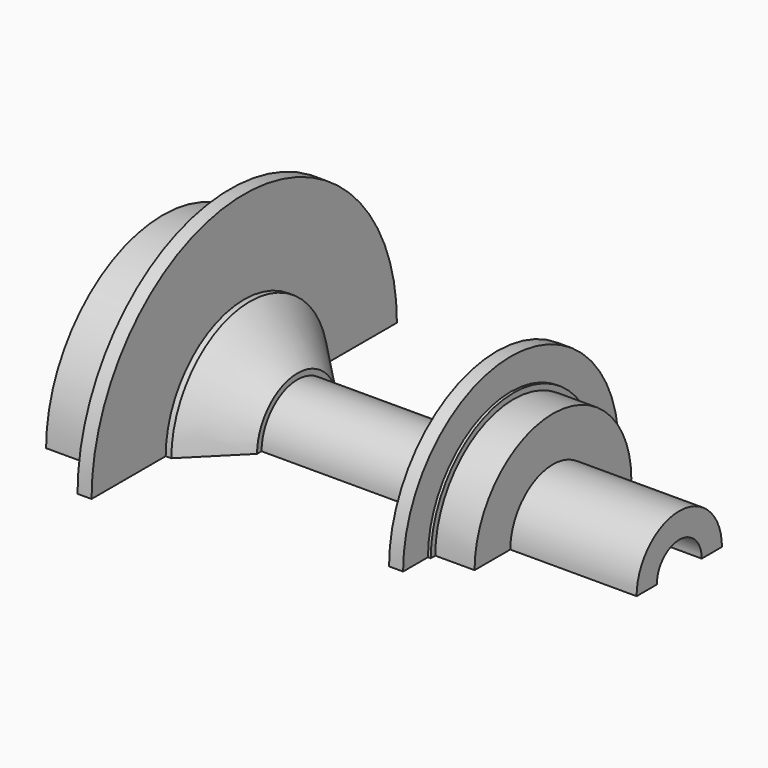
from build123d import *

# Parameters (mm, degrees)
REVOLUTION_ANGLE   = 180
SKETCH001_R        = 2.5
POCKET_DEPTH       = 22
POLARPATTERN_COUNT = 12


with BuildPart() as part:
    # Sketch → Revolution (revolve)
    with BuildSketch(Plane.XY):
        Polygon((27.5, 9.5), (27.5, 17.46), (20.5, 17.46), (20.5, 18.46), (20, 18.46), (20, 24), (17.5, 24), (17.5, 13.242641), (16.5, 13.242641), (12.257359, 9), (12.257359, 8), (-18.014719, 8), (-18.014719, 9), (-26.5, 17.485281), (-27.5, 17.485281), (-27.5, 34), (-30, 34), (-30, 26), (-42, 26), (-42, 9.5), (-50, 9.5), (-50, 5), (50, 5), (50, 9.5), align=None)
    revolve(axis=Axis((0, 0, 0), (1, 0, 0)), revolution_arc=REVOLUTION_ANGLE)

    # Sketch001 → Pocket (cut)
    with BuildSketch(Plane(origin=(-74.5, 0, 0), x_dir=(0, -1, 0), z_dir=(-1, 0, 0))):
        with Locations((0, 22)):
            Circle(SKETCH001_R)
        with Locations((0, 15)):
            Circle(SKETCH001_R)
    pocket = extrude(amount=-POCKET_DEPTH, mode=Mode.SUBTRACT)

    # PolarPattern: Pocket ×12 about axis
    polarpattern_axis = Axis((-74.5, 0, 0), (-1, 0, 0))
    for i in range(1, POLARPATTERN_COUNT):
        add(pocket.rotate(polarpattern_axis, i * 360 / POLARPATTERN_COUNT), mode=Mode.SUBTRACT)


solid = part.part
